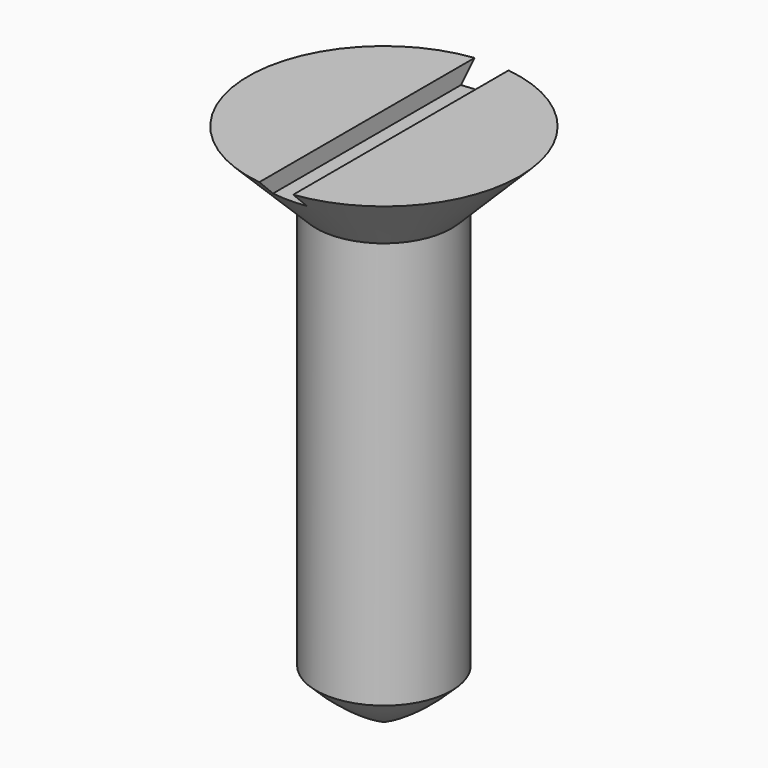
from build123d import *

# Parameters (mm, degrees)
F3_DEPTH = 0.5


with BuildPart() as f1:
    # F0 (on Front) → F1 (revolve)
    with BuildSketch(Plane.XZ):
        with BuildLine():
            Line((0, 14), (0, 0))
            Line((0, 0), (0, -1.462201))
            ThreePointArc((0, -1.462201), (1.063637, -0.818143), (2, 0))
            Line((2, 0), (2, 12))
            Line((2, 12), (4, 14))
            Line((4, 14), (0, 14))
        make_face()
    revolve(axis=Axis((0, 0, 7), (0, 0, 1)))

    # F2 (on face) → F3 (cut)
    with BuildSketch(Plane.XY.offset(14)):
        with BuildLine():
            Line((-0.5, 3.968627), (-0.5, -3.968627))
            ThreePointArc((-0.5, -3.968627), (0, -4), (0.5, -3.968627))
            Line((0.5, -3.968627), (0.5, 3.968627))
            ThreePointArc((0.5, 3.968627), (0, 4), (-0.5, 3.968627))
        make_face()
    extrude(amount=-F3_DEPTH, mode=Mode.SUBTRACT)


solid = f1.part
